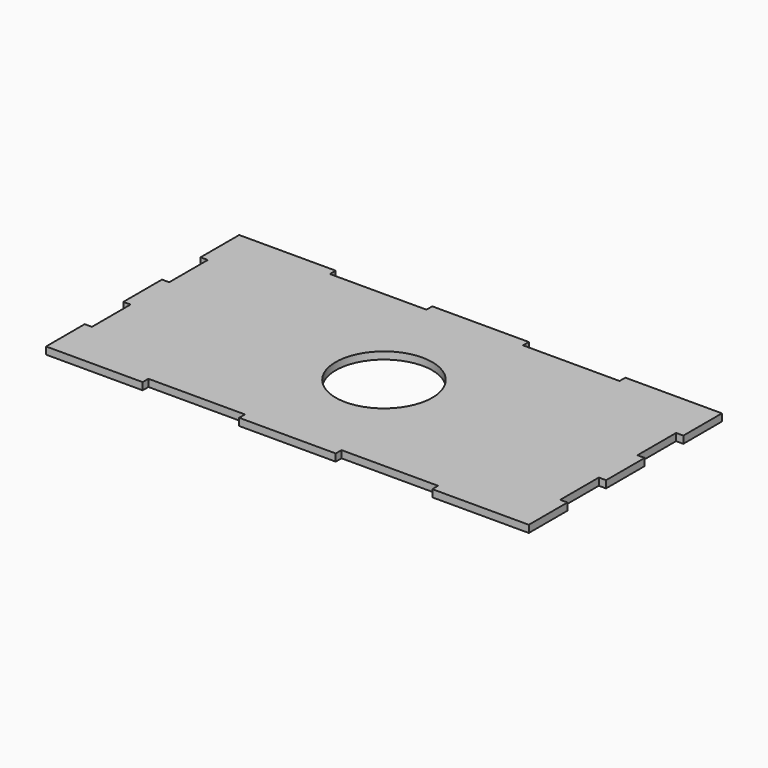
from build123d import *

# Parameters (mm, degrees)
F0_R     = 20
F1_DEPTH = 3


with BuildPart() as f1:
    # F0 (on Top) → F1 (new body)
    with BuildSketch(Plane.XY):
        Polygon((0, -20), (0, 0), (-40, 0), (-40, -3), (-80, -3), (-80, 0), (-120, 0), (-120, -3), (-160, -3), (-160, 0), (-200, 0), (-200, -20), (-197, -20), (-197, -40), (-200, -40), (-200, -60), (-197, -60), (-197, -80), (-200, -80), (-200, -100), (-160, -100), (-160, -97), (-120, -97), (-120, -100), (-80, -100), (-80, -97), (-40, -97), (-40, -100), (0, -100), (0, -80), (-3, -80), (-3, -60), (0, -60), (0, -40), (-3, -40), (-3, -20), align=None)
        with Locations((-100, -50)):
            Circle(F0_R, mode=Mode.SUBTRACT)
    extrude(amount=F1_DEPTH)


solid = f1.part
